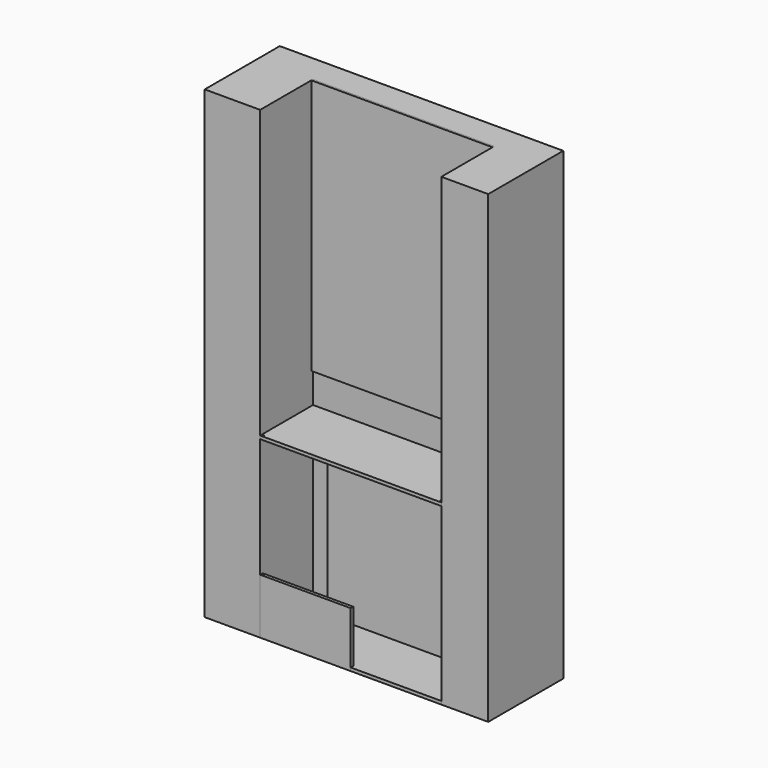
from build123d import *

# Parameters (mm, degrees)
F1_DEPTH  = 2768.6
F3_START  = 1244.6
F2_W      = 1079.5
F2_H      = 12.7
F3_DEPTH  = 1524
F4_W      = 1079.5
F4_H      = 393.7
F5_DEPTH  = 19.05
F6_W      = 838.2
F6_H      = 50.8
F7_DEPTH  = 914.4
F9_START  = 1041.4
F8_W      = 1079.5
F8_H      = 393.7
F8_R      = 3.175
F9_DEPTH  = 19.05
F10_W     = 539.75
F10_H     = 19.05
F10_R     = 3.175
F11_DEPTH = 330.2


with BuildPart() as f1:
    # F0 (on Top) → F1 (new body)
    with BuildSketch(Plane.XY):
        Polygon((-539.75, 0), (-539.75, 393.7), (539.75, 393.7), (539.75, 0), (819.15, 0), (819.15, 558.8), (-869.95, 558.8), (-869.95, 0), align=None)
    extrude(amount=F1_DEPTH)


with BuildPart() as f3:
    # F2 (on face) → F3 (new body)
    with BuildSketch(Plane.XY.offset(F3_START)):
        with Locations((0, 387.35)):
            Rectangle(F2_W, F2_H)
    extrude(amount=F3_DEPTH)


with BuildPart() as f5:
    # F4 (on face) → F5 (new body)
    with BuildSketch(Plane.XY):
        with Locations((0, 196.85)):
            Rectangle(F4_W, F4_H)
    extrude(amount=F5_DEPTH)


with BuildPart() as f7:
    # F6 (on face) → F7 (new body)
    with BuildSketch(Plane.XY):
        with Locations((6.35, 368.3)):
            Rectangle(F6_W, F6_H)
    extrude(amount=F7_DEPTH)


with BuildPart() as f9:
    # F8 (on face) → F9 (new body)
    with BuildSketch(Plane.XY.offset(F9_START)):
        with Locations((0, 196.85)):
            Rectangle(F8_W, F8_H)
        with Locations((-527.05, 9.525)):
            Circle(F8_R, mode=Mode.SUBTRACT)
        with Locations((527.05, 9.525)):
            Circle(F8_R, mode=Mode.SUBTRACT)
    extrude(amount=F9_DEPTH)


with BuildPart() as f11:
    # F10 (on face) → F11 (new body)
    with BuildSketch(Plane.XY):
        with Locations((-269.875, 9.525)):
            Rectangle(F10_W, F10_H)
        with Locations((-527.05, 9.525)):
            Circle(F10_R, mode=Mode.SUBTRACT)
    extrude(amount=F11_DEPTH)


solid = Compound([f1.part, f3.part, f5.part, f7.part, f9.part, f11.part])
